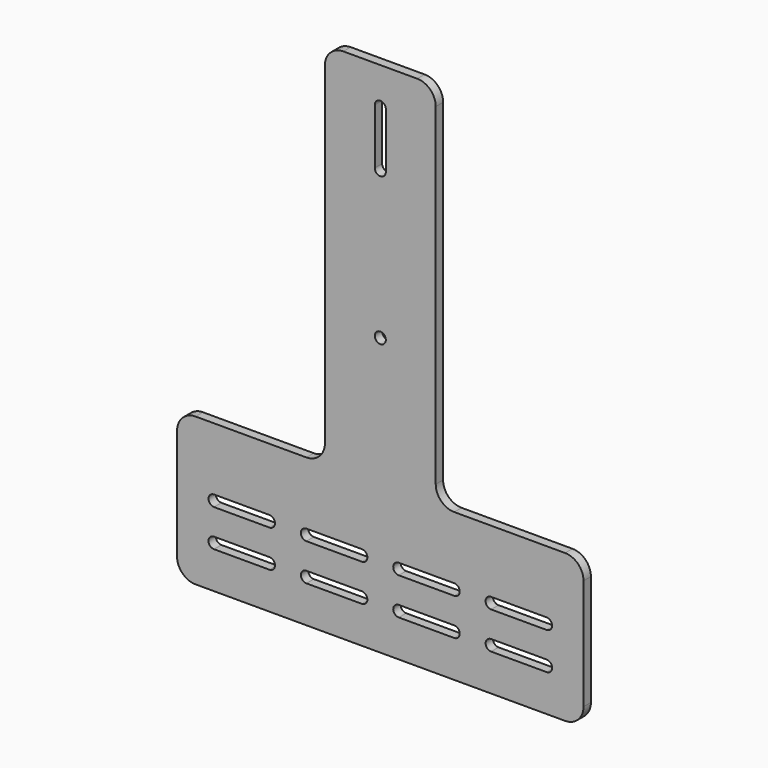
from build123d import *

# Parameters (mm, degrees)
F0_R     = 3
F1_DEPTH = 5


with BuildPart() as f1:
    # F0 (on Front) → F1 (new body)
    with BuildSketch(Plane.XZ):
        with BuildLine():
            ThreePointArc((-110, -102.711218), (-107.071068, -109.782286), (-100, -112.711218))
            Line((-100, -112.711218), (100, -112.711218))
            ThreePointArc((100, -112.711218), (107.071068, -109.782286), (110, -102.711218))
            Line((110, -102.711218), (110, -42.711218))
            ThreePointArc((110, -42.711218), (107.071068, -35.64015), (100, -32.711218))
            Line((100, -32.711218), (40, -32.711218))
            ThreePointArc((40, -32.711218), (32.928932, -29.782286), (30, -22.711218))
            Line((30, -22.711218), (30, 157.288782))
            ThreePointArc((30, 157.288782), (27.071068, 164.35985), (20, 167.288782))
            Line((20, 167.288782), (-20, 167.288782))
            ThreePointArc((-20, 167.288782), (-27.071068, 164.35985), (-30, 157.288782))
            Line((-30, 157.288782), (-30, -22.711218))
            ThreePointArc((-30, -22.711218), (-32.928932, -29.782286), (-40, -32.711218))
            Line((-40, -32.711218), (-100, -32.711218))
            ThreePointArc((-100, -32.711218), (-107.071068, -35.64015), (-110, -42.711218))
            Line((-110, -42.711218), (-110, -102.711218))
        make_face()
        with BuildLine():
            ThreePointArc((-90.000004, -92.711218), (-93.000004, -89.711218), (-90.000004, -86.711218))
            Line((-90.000004, -86.711218), (-60.000004, -86.711218))
            ThreePointArc((-60.000004, -86.711218), (-57.000004, -89.711218), (-60.000004, -92.711218))
            Line((-60.000004, -92.711218), (-90.000004, -92.711218))
        make_face(mode=Mode.SUBTRACT)
        with BuildLine():
            ThreePointArc((-90, -72.623216), (-93, -69.623216), (-90, -66.623216))
            Line((-90, -66.623216), (-60, -66.623216))
            ThreePointArc((-60, -66.623216), (-57, -69.623216), (-60, -72.623216))
            Line((-60, -72.623216), (-90, -72.623216))
        make_face(mode=Mode.SUBTRACT)
        with BuildLine():
            ThreePointArc((-10.000004, -86.711218), (-7.000004, -89.711218), (-10.000004, -92.711218))
            Line((-10.000004, -92.711218), (-40.000004, -92.711218))
            ThreePointArc((-40.000004, -92.711218), (-43.000004, -89.711218), (-40.000004, -86.711218))
            Line((-40.000004, -86.711218), (-10.000004, -86.711218))
        make_face(mode=Mode.SUBTRACT)
        with BuildLine():
            ThreePointArc((-10, -66.623216), (-7, -69.623216), (-10, -72.623216))
            Line((-10, -72.623216), (-40, -72.623216))
            ThreePointArc((-40, -72.623216), (-43, -69.623216), (-40, -66.623216))
            Line((-40, -66.623216), (-10, -66.623216))
        make_face(mode=Mode.SUBTRACT)
        with BuildLine():
            Line((39.999996, -92.711218), (9.999996, -92.711218))
            ThreePointArc((9.999996, -92.711218), (6.999996, -89.711218), (9.999996, -86.711218))
            Line((9.999996, -86.711218), (39.999996, -86.711218))
            ThreePointArc((39.999996, -86.711218), (42.999996, -89.711218), (39.999996, -92.711218))
        make_face(mode=Mode.SUBTRACT)
        with BuildLine():
            Line((40, -72.623216), (10, -72.623216))
            ThreePointArc((10, -72.623216), (7, -69.623216), (10, -66.623216))
            Line((10, -66.623216), (40, -66.623216))
            ThreePointArc((40, -66.623216), (43, -69.623216), (40, -72.623216))
        make_face(mode=Mode.SUBTRACT)
        with BuildLine():
            ThreePointArc((89.999996, -86.711218), (92.999996, -89.711218), (89.999996, -92.711218))
            Line((89.999996, -92.711218), (59.999996, -92.711218))
            ThreePointArc((59.999996, -92.711218), (56.999996, -89.711218), (59.999996, -86.711218))
            Line((59.999996, -86.711218), (89.999996, -86.711218))
        make_face(mode=Mode.SUBTRACT)
        with BuildLine():
            ThreePointArc((90, -66.623216), (93, -69.623216), (90, -72.623216))
            Line((90, -72.623216), (60, -72.623216))
            ThreePointArc((60, -72.623216), (57, -69.623216), (60, -66.623216))
            Line((60, -66.623216), (90, -66.623216))
        make_face(mode=Mode.SUBTRACT)
        with Locations((0, 37.288782)):
            Circle(F0_R, mode=Mode.SUBTRACT)
        with BuildLine():
            ThreePointArc((-3, 147.288782), (0, 150.288782), (3, 147.288782))
            Line((3, 147.288782), (3, 117.288782))
            ThreePointArc((3, 117.288782), (0, 114.288782), (-3, 117.288782))
            Line((-3, 117.288782), (-3, 147.288782))
        make_face(mode=Mode.SUBTRACT)
    extrude(amount=F1_DEPTH)


solid = f1.part
